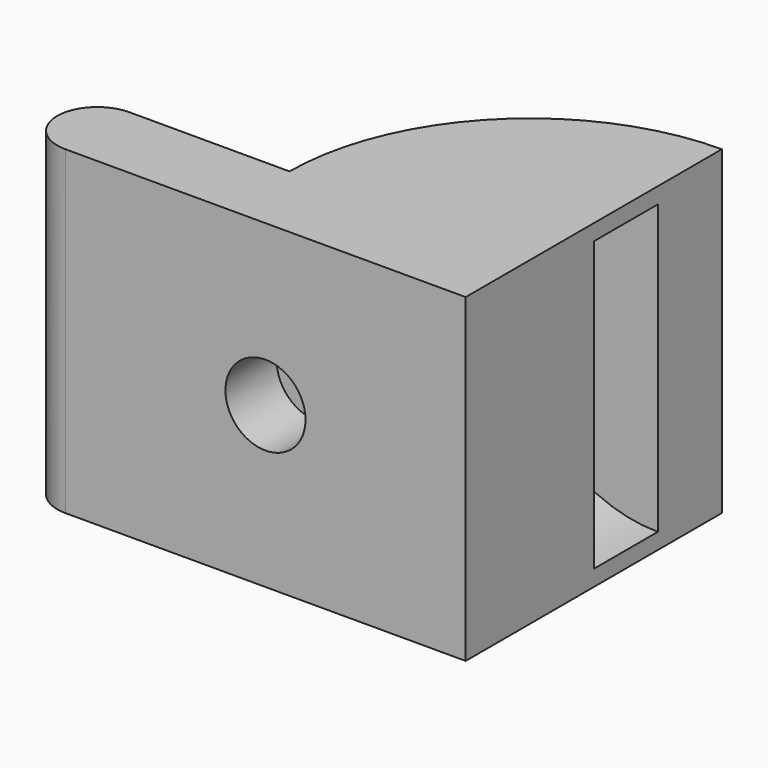
from build123d import *

# Parameters (mm, degrees)
F1_DEPTH = 20
F2_W     = 5
F2_H     = 9
F4_R     = 2.5
F5_DEPTH = 4


with BuildPart() as f1:
    # F0 (on Top) → F1 (new body)
    with BuildSketch(Plane.XY):
        with BuildLine():
            ThreePointArc((-15.832526, 9.133746), (-18.332526, 6.633745), (-15.832526, 4.133745))
            Line((-15.832526, 4.133745), (9.167474, 4.133745))
            Line((9.167474, 4.133745), (9.167474, 24.133746))
            ThreePointArc((9.167474, 24.133746), (-1.41941, 19.72063), (-5.832526, 9.133746))
            Line((-5.832526, 9.133746), (-15.832526, 9.133746))
        make_face()
    extrude(amount=F1_DEPTH)

    # F2 (on face) → F3 (revolve, cut)
    with BuildSketch(Plane.YZ.offset(9.167474)):
        with Locations((16.633746, 14.5)):
            Rectangle(F2_W, F2_H)
    revolve(axis=Axis((9.167474, 0.748294, 10), (0, -1, 0)), mode=Mode.SUBTRACT)

    # F4 (on face) → F5 (cut)
    with BuildSketch(Plane.XZ.offset(-4.133745)):
        with Locations((-3.332526, 10)):
            Circle(F4_R)
    extrude(amount=-F5_DEPTH, mode=Mode.SUBTRACT)


solid = f1.part
